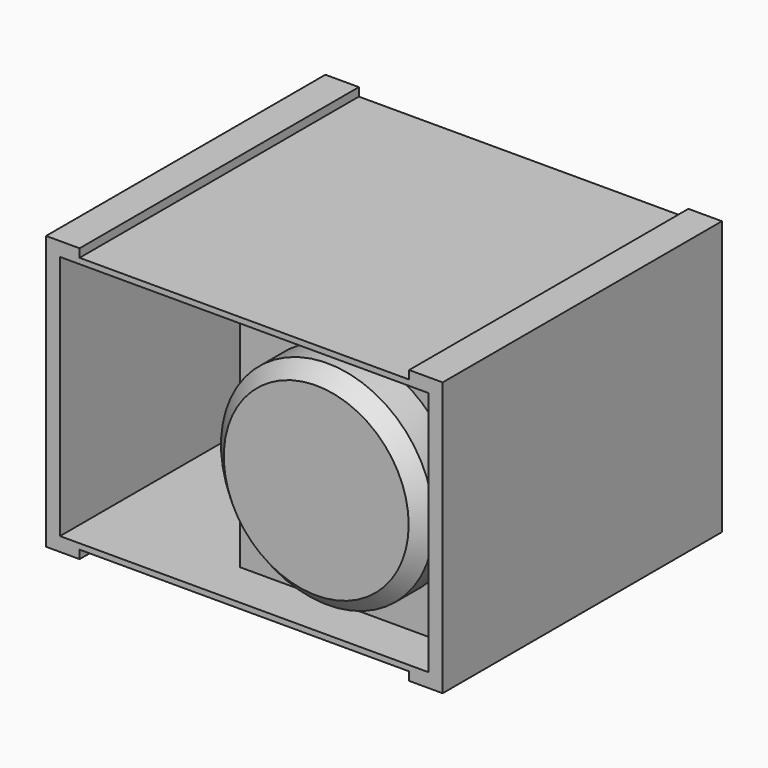
from build123d import *

# Parameters (mm, degrees)
F0_W     = 60
F0_H     = 15
F0_W_2   = 660
F0_H_2   = 440
F1_DEPTH = 625
F2_DEPTH = 15
F4_R     = 190.5
F5_DEPTH = 100
F6_SIZE  = 25
F4_W     = 409.003091
F4_H     = 446.732346
F7_DEPTH = 18
F8_W     = 19.05
F8_H     = 515.78
F9_DEPTH = 440


with BuildPart() as f1:
    # F0 (on Front) → F1 (new body)
    with BuildSketch(Plane.XZ):
        with Locations((-325, 237.5)):
            Rectangle(F0_W, F0_H)
        with Locations((325, 237.5)):
            Rectangle(F0_W, F0_H)
        with Locations((325, -237.5)):
            Rectangle(F0_W, F0_H)
        with Locations((-325, -237.5)):
            Rectangle(F0_W, F0_H)
        Polygon((-295, 230), (-355, 230), (-355, -230), (-295, -230), (295, -230), (355, -230), (355, 230), (295, 230), align=None)
        Rectangle(F0_W_2, F0_H_2, mode=Mode.SUBTRACT)
    extrude(amount=F1_DEPTH)

    # F0 (on Front) → F2 (join)
    with BuildSketch(Plane.XZ):
        Polygon((-295, 230), (-355, 230), (-355, -230), (-295, -230), (295, -230), (355, -230), (355, 230), (295, 230), align=None)
        Rectangle(F0_W_2, F0_H_2, mode=Mode.SUBTRACT)
        Rectangle(F0_W_2, F0_H_2)
    extrude(amount=F2_DEPTH)

    # F8 (on face) → F9 (join)
    with BuildSketch(Plane.XY.offset(-220)):
        with Locations((-52.174994, -257.889972)):
            Rectangle(F8_W, F8_H)
    extrude(amount=F9_DEPTH)


with BuildPart() as f5:
    # F4 (on offset) → F5 (new body)
    with BuildSketch(Plane.XZ.offset(523.4)):
        with Locations((127.401441, 0)):
            Circle(F4_R)
    extrude(amount=F5_DEPTH)

    # F6
    f6_edges = [f5.edges().sort_by_distance(p)[0] for p in [
        (-63.098559, -623.4, 0),
    ]]
    chamfer(f6_edges, length=F6_SIZE)


with BuildPart() as f7:
    # F4 (on offset) → F7 (new body)
    with BuildSketch(Plane.XZ.offset(523.4)):
        with Locations((129.932407, 1.103047)):
            Rectangle(F4_W, F4_H)
        with Locations((127.401441, 0)):
            Circle(F4_R, mode=Mode.SUBTRACT)
    extrude(amount=F7_DEPTH)


solid = Compound([f1.part, f5.part, f7.part])
